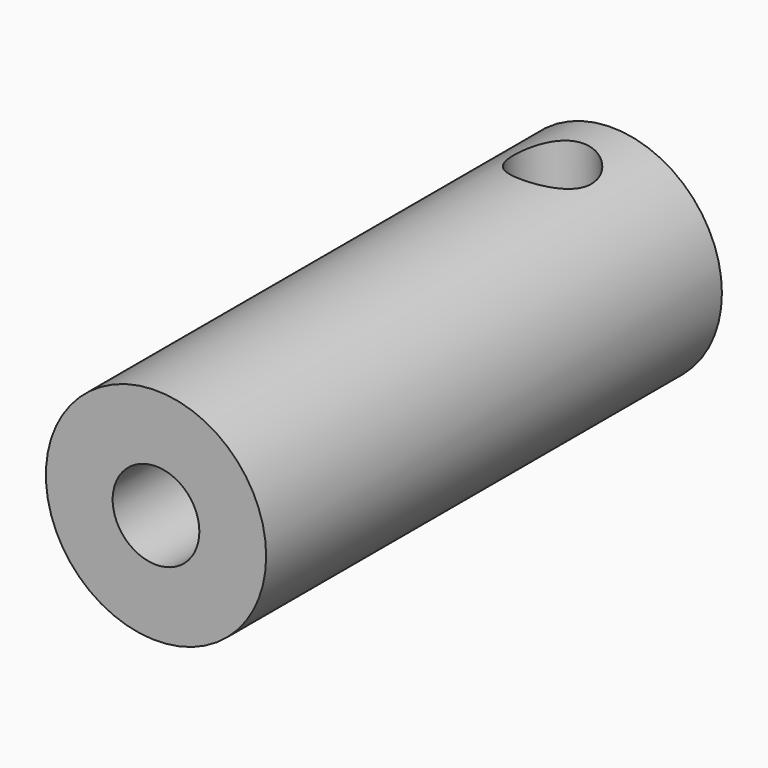
from build123d import *

# Parameters (mm, degrees)
F0_R     = 14.5
F0_R_2   = 5.70653
F1_DEPTH = 37.5
F2_R     = 5.118436
F3_DEPTH = 15


with BuildPart() as f1:
    # F0 (on Front) → F1 (new body, symmetric)
    with BuildSketch(Plane.XZ):
        Circle(F0_R)
        Circle(F0_R_2, mode=Mode.SUBTRACT)
    extrude(amount=F1_DEPTH, both=True)

    # F2 (on Top) → F3 (cut, symmetric)
    with BuildSketch(Plane.XY):
        with Locations((0, 27.751384)):
            Circle(F2_R)
    extrude(amount=F3_DEPTH, both=True, mode=Mode.SUBTRACT)


solid = f1.part
